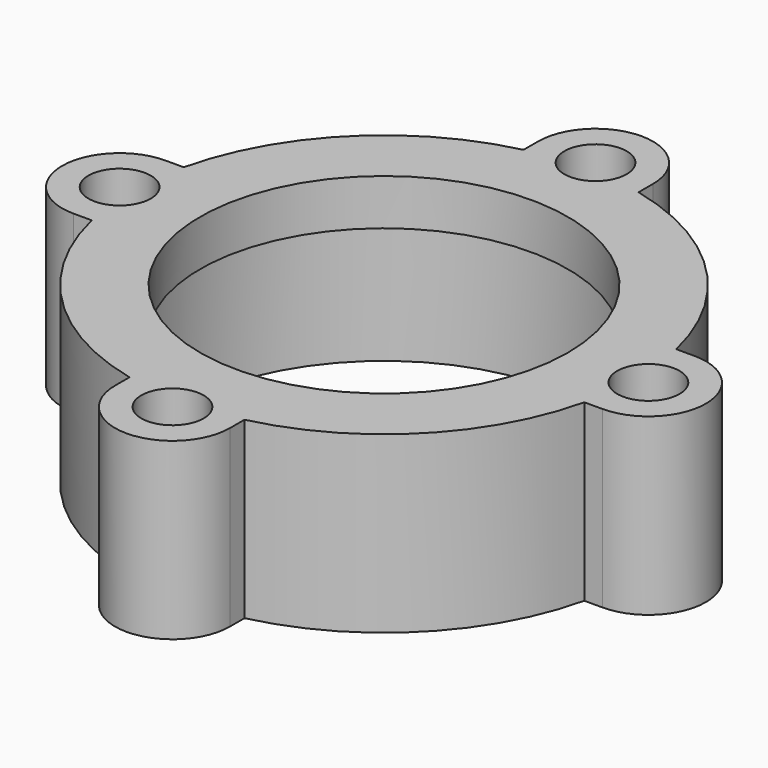
from build123d import *

# Parameters (mm, degrees)
F0_R     = 2.15265
F0_R_2   = 14.2875
F1_DEPTH = 8.89
F2_R     = 2.15265
F2_R_2   = 14.2875
F2_R_3   = 12.7
F3_DEPTH = 3.175


with BuildPart() as f1:
    # F0 (on Top) → F1 (new body)
    with BuildSketch(Plane.XY):
        with BuildLine():
            Line((3.96875, 17.0055264455), (3.96875, 18.25625))
            ThreePointArc((3.96875, 18.25625), (0, 22.225), (-3.96875, 18.25625))
            Line((-3.96875, 18.25625), (-3.96875, 17.0055264455))
            ThreePointArc((-3.96875, 17.0055264455), (-12.3478521665, 12.3478521665), (-17.0055264455, 3.96875))
            Line((-17.0055264455, 3.96875), (-18.25625, 3.96875))
            ThreePointArc((-18.25625, 3.96875), (-22.225, 0), (-18.25625, -3.96875))
            Line((-18.25625, -3.96875), (-17.0055264455, -3.96875))
            ThreePointArc((-17.0055264455, -3.96875), (-12.3478521665, -12.3478521665), (-3.96875, -17.0055264455))
            Line((-3.96875, -17.0055264455), (-3.96875, -18.25625))
            ThreePointArc((-3.96875, -18.25625), (0, -22.225), (3.96875, -18.25625))
            Line((3.96875, -18.25625), (3.96875, -17.0055264455))
            ThreePointArc((3.96875, -17.0055264455), (12.3478521665, -12.3478521665), (17.0055264455, -3.96875))
            Line((17.0055264455, -3.96875), (18.25625, -3.96875))
            ThreePointArc((18.25625, -3.96875), (22.225, 0), (18.25625, 3.96875))
            Line((18.25625, 3.96875), (17.0055264455, 3.96875))
            ThreePointArc((17.0055264455, 3.96875), (12.3478521665, 12.3478521665), (3.96875, 17.0055264455))
        make_face()
        with Locations((0, -18.25625)):
            Circle(F0_R, mode=Mode.SUBTRACT)
        with Locations((-18.25625, 0)):
            Circle(F0_R, mode=Mode.SUBTRACT)
        Circle(F0_R_2, mode=Mode.SUBTRACT)
        with Locations((18.25625, 0)):
            Circle(F0_R, mode=Mode.SUBTRACT)
        with Locations((0, 18.25625)):
            Circle(F0_R, mode=Mode.SUBTRACT)
    extrude(amount=F1_DEPTH)

    # F2 (on face) → F3 (join)
    with BuildSketch(Plane.XY.offset(8.89)):
        with BuildLine():
            ThreePointArc((-17.0055264455, -3.96875), (-12.3478521665, -12.3478521665), (-3.96875, -17.0055264455))
            Line((-3.96875, -17.0055264455), (-3.96875, -18.25625))
            ThreePointArc((-3.96875, -18.25625), (0, -22.225), (3.96875, -18.25625))
            Line((3.96875, -18.25625), (3.96875, -17.0055264455))
            ThreePointArc((3.96875, -17.0055264455), (12.3478521665, -12.3478521665), (17.0055264455, -3.96875))
            Line((17.0055264455, -3.96875), (18.25625, -3.96875))
            ThreePointArc((18.25625, -3.96875), (22.225, 0), (18.25625, 3.96875))
            Line((18.25625, 3.96875), (17.0055264455, 3.96875))
            ThreePointArc((17.0055264455, 3.96875), (12.3478521665, 12.3478521665), (3.96875, 17.0055264455))
            Line((3.96875, 17.0055264455), (3.96875, 18.25625))
            ThreePointArc((3.96875, 18.25625), (0, 22.225), (-3.96875, 18.25625))
            Line((-3.96875, 18.25625), (-3.96875, 17.0055264455))
            ThreePointArc((-3.96875, 17.0055264455), (-12.3478521665, 12.3478521665), (-17.0055264455, 3.96875))
            Line((-17.0055264455, 3.96875), (-18.25625, 3.96875))
            ThreePointArc((-18.25625, 3.96875), (-22.225, 0), (-18.25625, -3.96875))
            Line((-18.25625, -3.96875), (-17.0055264455, -3.96875))
        make_face()
        with Locations((0, -18.25625)):
            Circle(F2_R, mode=Mode.SUBTRACT)
        with Locations((-18.25625, 0)):
            Circle(F2_R, mode=Mode.SUBTRACT)
        Circle(F2_R_2, mode=Mode.SUBTRACT)
        with Locations((18.25625, 0)):
            Circle(F2_R, mode=Mode.SUBTRACT)
        with Locations((0, 18.25625)):
            Circle(F2_R, mode=Mode.SUBTRACT)
        Circle(F2_R_2)
        Circle(F2_R_3, mode=Mode.SUBTRACT)
    extrude(amount=F3_DEPTH)


solid = f1.part
